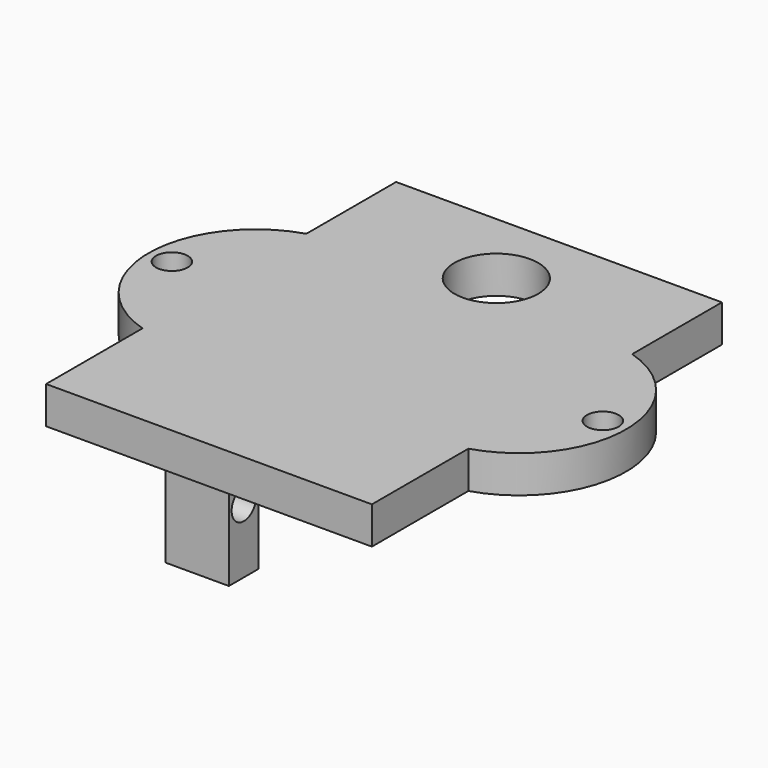
from build123d import *

# Parameters (mm, degrees)
BOX001_W        = 35
BOX001_H        = 47
BOX001_DEPTH    = 4
SKETCH006_W     = 6.802042
SKETCH006_H     = 4
PAD003_DEPTH    = 14
SKETCH007_R     = 1.647159
SKETCH007_R_2   = 1.531135
POCKET003_DEPTH = 7
PAD004_DEPTH    = 4
SKETCH009_R     = 4.5
SKETCH009_R_2   = 1.7
POCKET004_DEPTH = 4


with BuildPart() as part:
    # Box001 → Box001 (new body)
    with BuildSketch(Plane(origin=(-11, -31, -17), x_dir=(1, 0, 0), z_dir=(0, 0, 1))):
        with Locations((17.5, 23.5)):
            Rectangle(BOX001_W, BOX001_H)
    extrude(amount=BOX001_DEPTH)

    # Sketch006 → Pad003 (new body)
    with BuildSketch(Plane(origin=(-11, -31, -17), x_dir=(1, 0, 0), z_dir=(0, 0, -1))):
        with Locations((9.901021, -9.91944)):
            Rectangle(SKETCH006_W, SKETCH006_H)
        with Locations((9.901021, -37.91944)):
            Rectangle(SKETCH006_W, SKETCH006_H)
    extrude(amount=PAD003_DEPTH)

    # Sketch007 → Pocket003 (cut)
    with BuildSketch(Plane(origin=(2.302042, -31, -17), x_dir=(0, 1, 0), z_dir=(1, 0, 0))):
        with Locations((9.935232, -7.037912)):
            Circle(SKETCH007_R)
        with Locations((37.888477, -7.037912)):
            Circle(SKETCH007_R_2)
    extrude(amount=-POCKET003_DEPTH, mode=Mode.SUBTRACT)

    # Sketch008 → Pad004 (new body)
    with BuildSketch(Plane(origin=(-11, -31, -17), x_dir=(1, 0, 0), z_dir=(0, 0, -1))):
        with BuildLine():
            ThreePointArc((35, -34.9498), (43.145898, -23.9498), (35, -12.9498))
            Line((35, -12.9498), (35, -34.9498))
        make_face()
        with BuildLine():
            ThreePointArc((0, -12.9498), (-8.145898, -23.9498), (0, -34.9498))
            Line((0, -12.9498), (0, -34.9498))
        make_face()
    extrude(amount=-PAD004_DEPTH)

    # Sketch009 → Pocket004 (cut)
    with BuildSketch(Plane(origin=(-11, -31, -13), x_dir=(1, 0, 0), z_dir=(0, 0, 1))):
        with Locations((17.5, 38.5843)):
            Circle(SKETCH009_R)
        with Locations((-5.645898, 23.9498)):
            Circle(SKETCH009_R_2)
        with Locations((40.645898, 23.9498)):
            Circle(SKETCH009_R_2)
    extrude(amount=-POCKET004_DEPTH, mode=Mode.SUBTRACT)


solid = part.part
